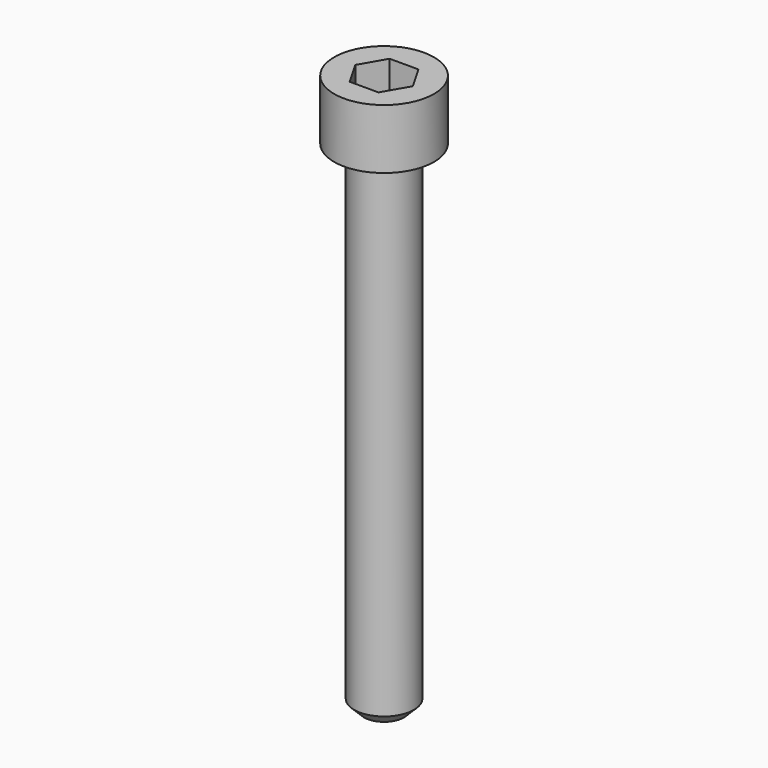
from build123d import *

# Parameters (mm, degrees)
F3_DEPTH = 4
F4_SIZE  = 1


with BuildPart() as f1:
    # F0 (on Front) → F1 (revolve)
    with BuildSketch(Plane.XZ):
        Polygon((5, 6), (0, 6), (0, -50), (3, -50), (3, 0), (5, 0), align=None)
    revolve(axis=Axis((0, 0, -50.553678), (0, 0, -1)))

    # F2 (on face) → F3 (cut)
    with BuildSketch(Plane.XY.offset(6)):
        Polygon((1.443376, 2.5), (-1.443376, 2.5), (-2.886751, 0), (-1.443376, -2.5), (1.443376, -2.5), (2.886751, 0), align=None)
    extrude(amount=-F3_DEPTH, mode=Mode.SUBTRACT)

    # F4
    f4_edges = [f1.edges().sort_by_distance(p)[0] for p in [
        (-3, 0, -50),
    ]]
    chamfer(f4_edges, length=F4_SIZE)


solid = f1.part
